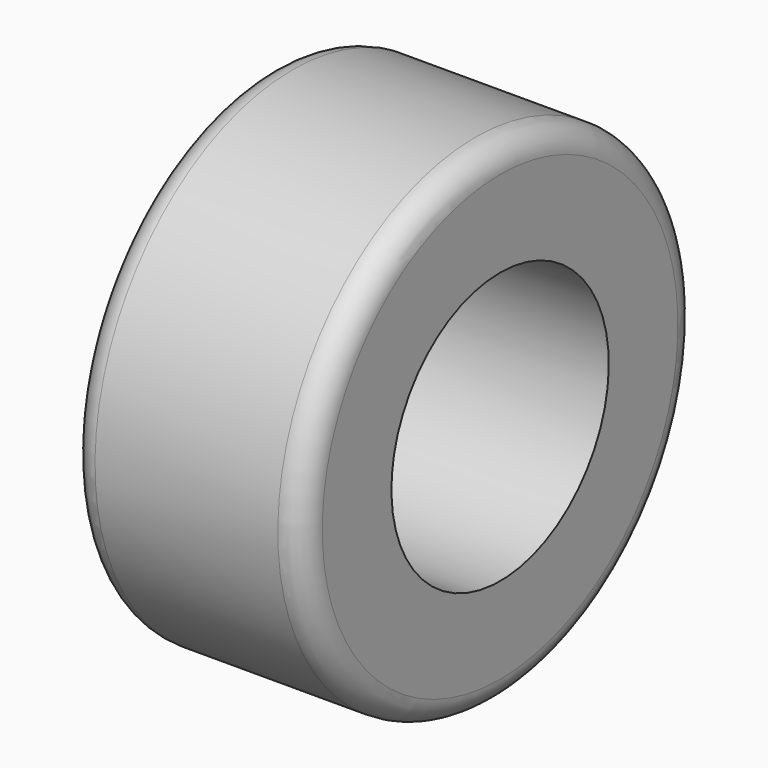
from build123d import *

# Parameters (mm, degrees)
F0_W = 47
F0_H = 22.5
F2_R = 5


with BuildPart() as f1:
    # F0 (on Front) → F1 (revolve)
    with BuildSketch(Plane.XZ):
        with Locations((0, 38.75)):
            Rectangle(F0_W, F0_H)
    revolve(axis=Axis((0, 0, 0), (1, 0, 0)))

    # F2
    f2_edges = [f1.edges().sort_by_distance(p)[0] for p in [
        (23.5, 0, -50),
        (-23.5, 0, -50),
    ]]
    fillet(f2_edges, radius=F2_R)


solid = f1.part
